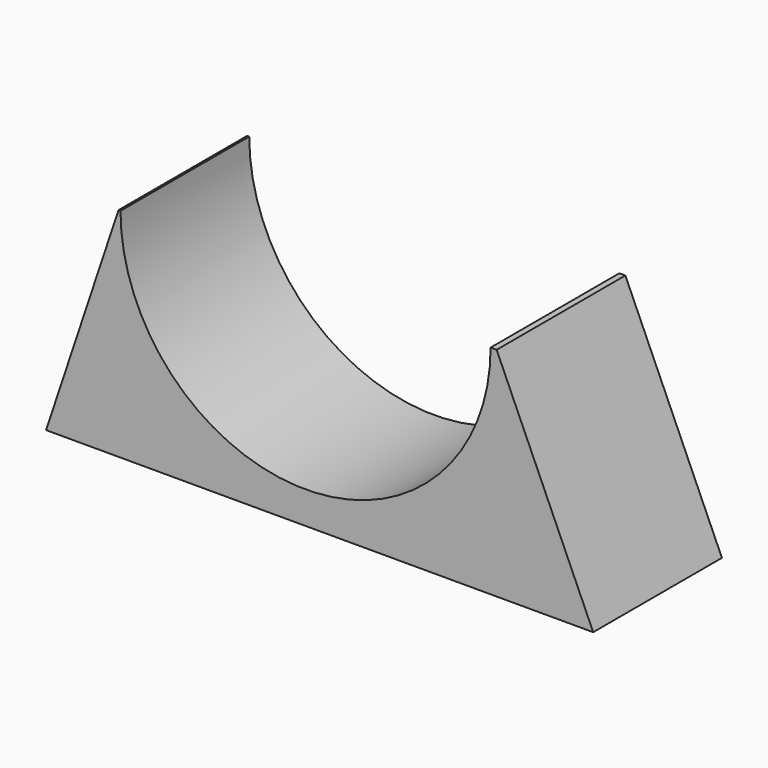
from build123d import *

# Parameters (mm, degrees)
F0_W     = 34
F0_H     = 13.5
F1_DEPTH = 10
F2_R     = 11.5
F3_DEPTH = 10.001


with BuildPart() as f1:
    # F0 (on Front) → F1 (new body)
    with BuildSketch(Plane.XZ):
        Rectangle(F0_W, F0_H)
    extrude(amount=-F1_DEPTH)

    # F2 (on face) → F3 (cut, through all)
    with BuildSketch(Plane.XZ):
        with Locations((-0.875213, 6.75)):
            Circle(F2_R)
        Polygon((-17, -6.75), (-12.5, 6.75), (-17, 6.75), align=None)
        Polygon((11, 6.75), (17, -6.75), (17, 6.75), align=None)
    extrude(amount=-F3_DEPTH, mode=Mode.SUBTRACT)


solid = f1.part
